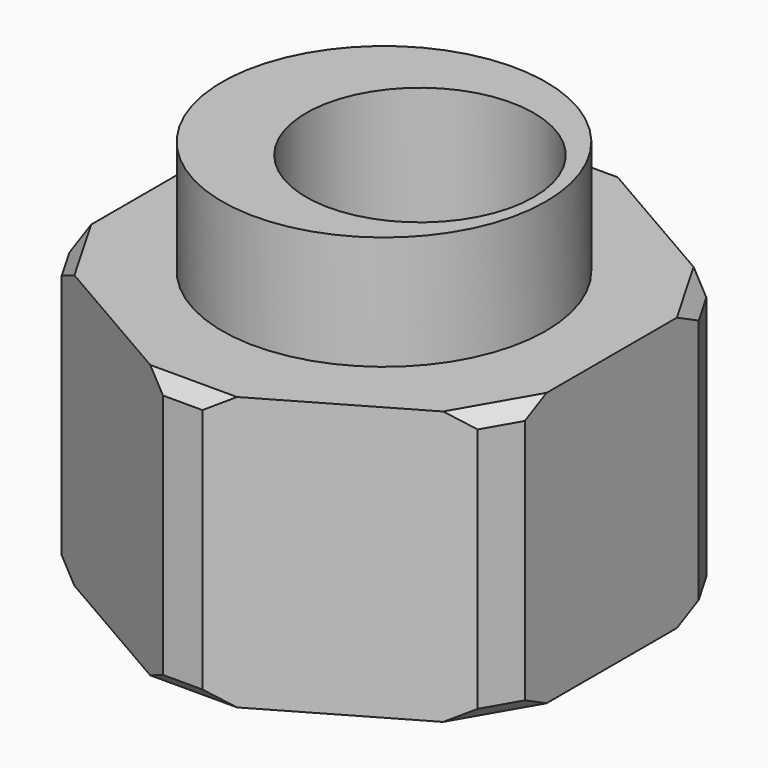
from build123d import *

# Parameters (mm, degrees)
F1_DEPTH = 6
F2_SIZE  = 0.5
F3_SIZE  = 0.3
F4_R     = 3.555
F5_DEPTH = 2.5
F6_R     = 2.5
F7_DEPTH = 8.501


with BuildPart() as f1:
    # F0 (on Top) → F1 (new body)
    with BuildSketch(Plane.XY):
        Polygon((0, -5.7735026919), (5, -2.8867513459), (5, 2.8867513459), (0, 5.7735026919), (-5, 2.8867513459), (-5, -2.8867513459), align=None)
    extrude(amount=F1_DEPTH)

    # F2
    f2_edges = [f1.edges().sort_by_distance(p)[0] for p in [
        (5, 2.886751, 3),
        (0, 5.773503, 3),
        (5, -2.886751, 3),
        (0, -5.773503, 3),
        (-5, -2.886751, 3),
        (-5, 2.886751, 3),
    ]]
    chamfer(f2_edges, length=F2_SIZE)

    # F3
    f3_edges = [f1.edges().sort_by_distance(p)[0] for p in [
        (4.783494, 2.761751, 6),
        (4.783494, -2.761751, 6),
        (0, 5.523503, 6),
        (-4.783494, 2.761751, 6),
        (-4.783494, -2.761751, 6),
        (0, -5.523503, 6),
        (-4.783494, -2.761751, 0),
        (0, -5.523503, 0),
        (4.783494, -2.761751, 0),
        (4.783494, 2.761751, 0),
        (0, 5.523503, 0),
        (-4.783494, 2.761751, 0),
    ]]
    chamfer(f3_edges, length=F3_SIZE)

    # F4 (on face) → F5 (join)
    with BuildSketch(Plane.XY.offset(6)):
        Circle(F4_R)
    extrude(amount=F5_DEPTH)

    # F6 (on face) → F7 (cut, through all)
    with BuildSketch(Plane.XY.offset(8.5)):
        with Locations((0.79, 0)):
            Circle(F6_R)
    extrude(amount=-F7_DEPTH, mode=Mode.SUBTRACT)


solid = f1.part
